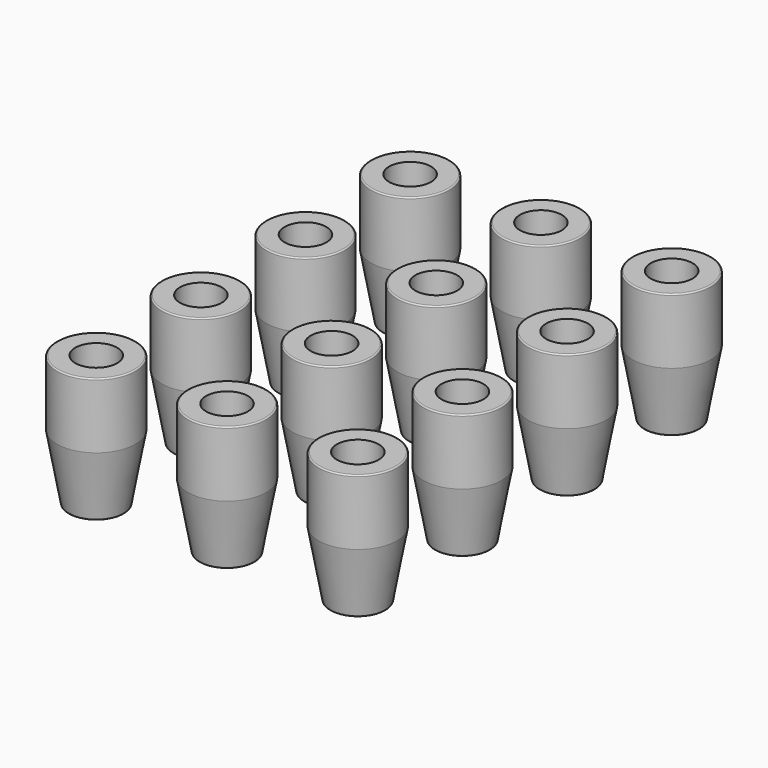
from build123d import *

# Parameters (mm, degrees)
F0_W = 2.8
F0_H = 10
F2_R = 0.2


with BuildPart() as f1:
    # F0 (on Front) → F1 (revolve)
    with BuildSketch(Plane.XZ):
        with Locations((-4.6, 5)):
            Rectangle(F0_W, F0_H)
        Polygon((-4.2, -10), (-3.2, -10), (-3.2, 0), (-6, 0), align=None)
    revolve(axis=Axis((0, 0, -5), (0, 0, -1)))

    # F2
    f2_edges = [f1.edges().sort_by_distance(p)[0] for p in [
        (4.2, 0, -10),
        (6, 0, 10),
        (3.2, 0, -10),
    ]]
    fillet(f2_edges, radius=F2_R)


with BuildPart() as f3_1:
    # F3: copy of F1
    add(f1.part.moved(Location((0, -30, 0))))


with BuildPart() as f5_1:
    # F5: copy of F3_1
    add(f3_1.part.moved(Location((-20, 0, 0))))


with BuildPart() as f6_1:
    # F6: copy of F3_1
    add(f3_1.part.moved(Location((20, 0, 0))))


with BuildPart() as f7_1:
    # F7: copy of F5_1
    add(f5_1.part.moved(Location((0, 20, 0))))


with BuildPart() as f8_1:
    # F8: copy of F3_1
    add(f3_1.part.moved(Location((0, 20, 0))))


with BuildPart() as f9_1:
    # F9: copy of F6_1
    add(f6_1.part.moved(Location((0, 20, 0))))


with BuildPart() as f10_1:
    # F10: copy of F7_1
    add(f7_1.part.moved(Location((0, 20, 0))))


with BuildPart() as f11_1:
    # F11: copy of F8_1
    add(f8_1.part.moved(Location((0, 20, 0))))


with BuildPart() as f12_1:
    # F12: copy of F9_1
    add(f9_1.part.moved(Location((0, 20, 0))))


with BuildPart() as f13_1:
    # F13: copy of F10_1
    add(f10_1.part.moved(Location((0, 20, 0))))


with BuildPart() as f14_1:
    # F14: copy of F11_1
    add(f11_1.part.moved(Location((0, 20, 0))))


with BuildPart() as f15_1:
    # F15: copy of F12_1
    add(f12_1.part.moved(Location((0, 20, 0))))


solid = Compound([f3_1.part, f5_1.part, f6_1.part, f7_1.part, f8_1.part, f9_1.part, f10_1.part, f11_1.part, f12_1.part, f13_1.part, f14_1.part, f15_1.part])
